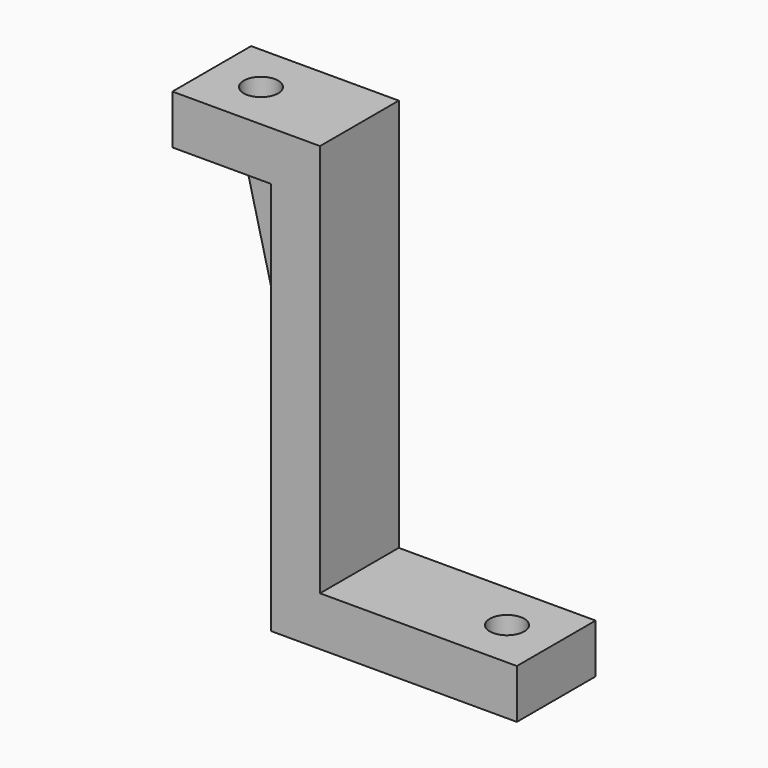
from build123d import *

# Parameters (mm, degrees)
F1_DEPTH = 10
F2_DEPTH = 2
F3_R     = 1.75
F4_DEPTH = 5
F5_R     = 1.75
F6_DEPTH = 5


with BuildPart() as f1:
    # F0 (on Front) → F1 (new body)
    with BuildSketch(Plane.XZ):
        Polygon((0, 40), (-15, 40), (-15, 35), (-5, 35), (-5, -5), (20, -5), (20, 0), (0, 0), align=None)
    extrude(amount=F1_DEPTH)

    # F0 (on Front) → F2 (join)
    with BuildSketch(Plane.XZ):
        Polygon((0, 40), (-15, 40), (-15, 35), (-5, 35), (-5, -5), (20, -5), (20, 0), (0, 0), align=None)
        Polygon((-5, 35), (-15, 35), (-5, -5), align=None)
    extrude(amount=F2_DEPTH)

    # F3 (on face) → F4 (cut)
    with BuildSketch(Plane.XY.offset(40)):
        with Locations((-10, -5)):
            Circle(F3_R)
    extrude(amount=-F4_DEPTH, mode=Mode.SUBTRACT)

    # F5 (on face) → F6 (cut)
    with BuildSketch(Plane.XY):
        with Locations((15, -5)):
            Circle(F5_R)
    extrude(amount=-F6_DEPTH, mode=Mode.SUBTRACT)


solid = f1.part
